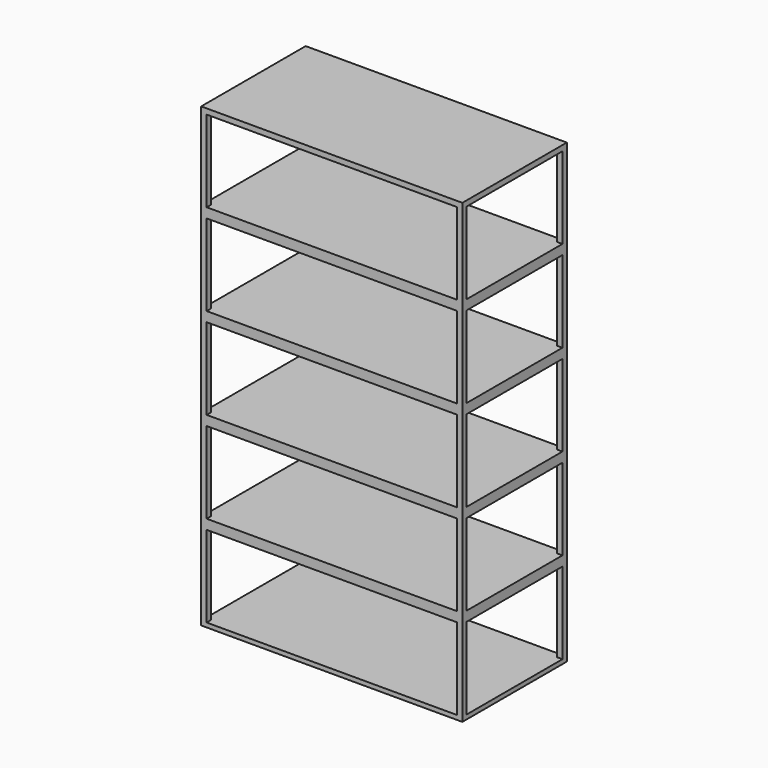
from build123d import *

# Parameters (mm, degrees)
F0_W     = 1219.2
F0_H     = 2133.6
F1_DEPTH = 609.6
F2_W     = 1168.4
F2_H     = 381
F3_DEPTH = 609.601
F4_W     = 558.8
F4_H     = 381
F5_DEPTH = 1219.201


with BuildPart() as f1:
    # F0 (on Front) → F1 (new body)
    with BuildSketch(Plane.XZ):
        Rectangle(F0_W, F0_H)
    extrude(amount=F1_DEPTH)

    # F2 (on face) → F3 (cut, through all)
    with BuildSketch(Plane.XZ.offset(609.6)):
        with Locations((0, 850.9)):
            Rectangle(F2_W, F2_H)
        with Locations((0, 424.18)):
            Rectangle(F2_W, F2_H)
        with Locations((0, -2.54)):
            Rectangle(F2_W, F2_H)
        with Locations((0, -429.26)):
            Rectangle(F2_W, F2_H)
        with Locations((0, -855.98)):
            Rectangle(F2_W, F2_H)
    extrude(amount=-F3_DEPTH, mode=Mode.SUBTRACT)

    # F4 (on face) → F5 (cut, through all)
    with BuildSketch(Plane(origin=(-609.6, 0, 0), x_dir=(0, -1, 0), z_dir=(-1, 0, 0))):
        with Locations((304.8, 850.9)):
            Rectangle(F4_W, F4_H)
        with Locations((304.8, 424.18)):
            Rectangle(F4_W, F4_H)
        with Locations((304.8, -2.54)):
            Rectangle(F4_W, F4_H)
        with Locations((304.8, -429.26)):
            Rectangle(F4_W, F4_H)
        with Locations((304.8, -855.98)):
            Rectangle(F4_W, F4_H)
    extrude(amount=-F5_DEPTH, mode=Mode.SUBTRACT)


solid = f1.part
